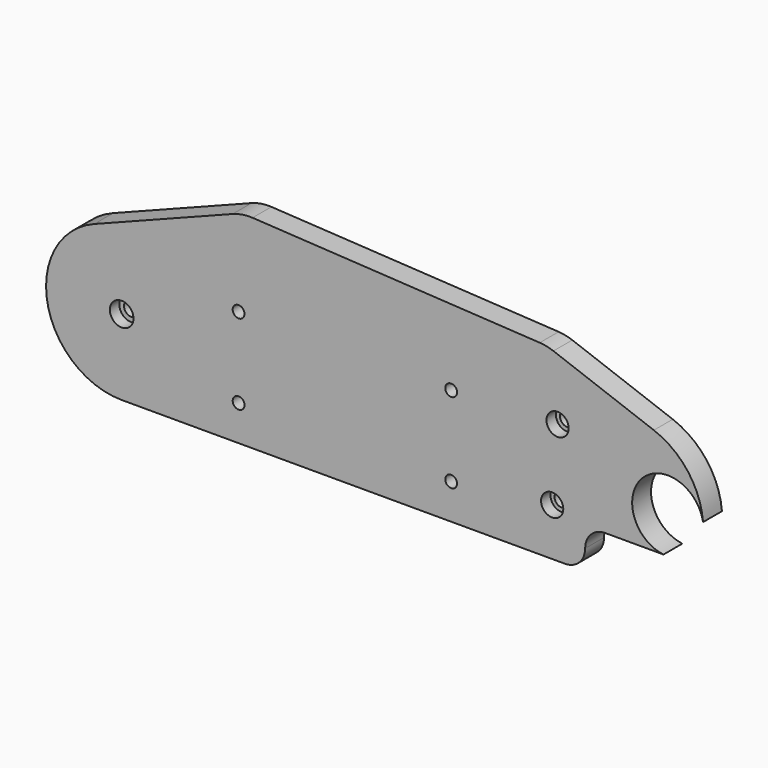
from build123d import *

# Parameters (mm, degrees)
F0_R     = 5.969
F0_R_2   = 3.81
F0_R_3   = 6.35
F1_DEPTH = 6.35
F0_R_4   = 3.175
F2_DEPTH = 12.7


with BuildPart() as f1:
    # F0 (on Front) → F1 (new body)
    with BuildSketch(Plane.XZ):
        with Locations((-159.151914, 31.567266)):
            Circle(F0_R)
        with Locations((-159.151914, 31.567266)):
            Circle(F0_R_2, mode=Mode.SUBTRACT)
        with Locations((-156.240611, 70.673715)):
            Circle(F0_R)
        with Locations((-156.240611, 70.673715)):
            Circle(F0_R_2, mode=Mode.SUBTRACT)
        with Locations((-390.647602, 46.598951)):
            Circle(F0_R_3)
        with Locations((-390.647602, 46.598951)):
            Circle(F0_R_2, mode=Mode.SUBTRACT)
    extrude(amount=F1_DEPTH)


with BuildPart() as f2:
    # F0 (on Front) → F2 (new body)
    with BuildSketch(Plane.XZ):
        with BuildLine():
            Line((-104.47922, 84.725318), (-158.496281, 104.660804))
            ThreePointArc((-158.496281, 104.660804), (-162.104875, 105.696829), (-165.826766, 106.189609))
            Line((-165.826766, 106.189609), (-320.27391, 115.105298))
            ThreePointArc((-320.27391, 115.105298), (-325.699259, 114.83668), (-330.943426, 113.420601))
            Line((-330.943426, 113.420601), (-405.376723, 84.475891))
            ThreePointArc((-405.376723, 84.475891), (-430.590864, 39.105929), (-390.647602, 5.958951))
            Line((-390.647602, 5.958951), (-152.205102, 5.958951))
            ThreePointArc((-152.205102, 5.958951), (-144.571884, 9.120733), (-141.410102, 16.753951))
            ThreePointArc((-141.410102, 16.753951), (-138.248319, 24.387169), (-130.615102, 27.548951))
            Line((-130.615102, 27.548951), (-99.294885, 27.548951))
            ThreePointArc((-99.294885, 27.548951), (-110.837173, 59.857178), (-78.036346, 49.799759))
            ThreePointArc((-78.036346, 49.799759), (-86.149186, 71.130365), (-104.47922, 84.725318))
        make_face()
        with Locations((-327.766219, 25.008951)):
            Circle(F0_R_4, mode=Mode.SUBTRACT)
        with Locations((-390.647602, 46.598951)):
            Circle(F0_R_3, mode=Mode.SUBTRACT)
        with Locations((-213.466219, 25.008951)):
            Circle(F0_R_4, mode=Mode.SUBTRACT)
        with Locations((-159.151914, 31.567266)):
            Circle(F0_R, mode=Mode.SUBTRACT)
        with Locations((-327.766219, 68.188951)):
            Circle(F0_R_4, mode=Mode.SUBTRACT)
        with Locations((-213.466219, 68.188951)):
            Circle(F0_R_4, mode=Mode.SUBTRACT)
        with Locations((-156.240611, 70.673715)):
            Circle(F0_R, mode=Mode.SUBTRACT)
    extrude(amount=F2_DEPTH)


solid = Compound([f1.part, f2.part])
